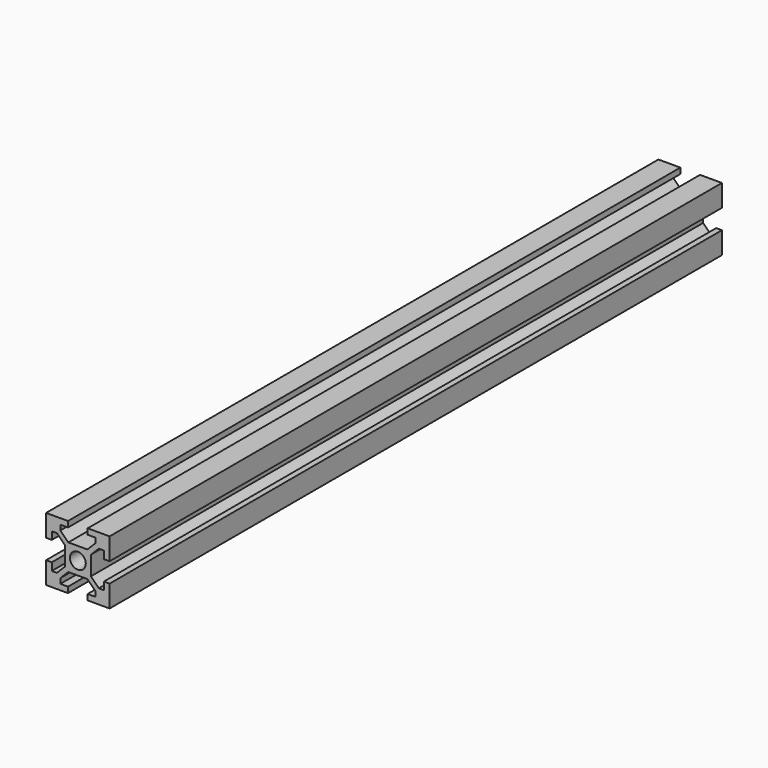
from build123d import *

# Parameters (mm, degrees)
F0_R     = 2.5
F1_DEPTH = 241


with BuildPart() as f1:
    # F0 (on Front) → F1 (new body)
    with BuildSketch(Plane.XZ):
        Polygon((37.416257, 43.289026), (30.516257, 43.289026), (30.516257, 36.389026), (32.316257, 36.389026), (32.316257, 38.789026), (33.916257, 38.789026), (36.416257, 36.289026), (36.416257, 30.289026), (33.916257, 27.789026), (32.316257, 27.789026), (32.316257, 30.189026), (30.516257, 30.189026), (30.516257, 23.289026), (37.416257, 23.289026), (37.416257, 25.089026), (35.016257, 25.089026), (35.016257, 26.689026), (37.516257, 29.189026), (40.516257, 29.189026), (43.516257, 29.189026), (46.016257, 26.689026), (46.016257, 25.089026), (43.616257, 25.089026), (43.616257, 23.289026), (50.516257, 23.289026), (50.516257, 30.189026), (48.716257, 30.189026), (48.716257, 27.789026), (47.116257, 27.789026), (44.616257, 30.289026), (44.616257, 36.289026), (47.116257, 38.789026), (48.716257, 38.789026), (48.716257, 36.389026), (50.516257, 36.389026), (50.516257, 43.289026), (43.616257, 43.289026), (43.616257, 41.489026), (46.016257, 41.489026), (46.016257, 39.889026), (43.516257, 37.389026), (40.516257, 37.389026), (37.516257, 37.389026), (35.016257, 39.889026), (35.016257, 41.489026), (37.416257, 41.489026), align=None)
        with Locations((40.516257, 33.289026)):
            Circle(F0_R, mode=Mode.SUBTRACT)
    extrude(amount=F1_DEPTH)


solid = f1.part
